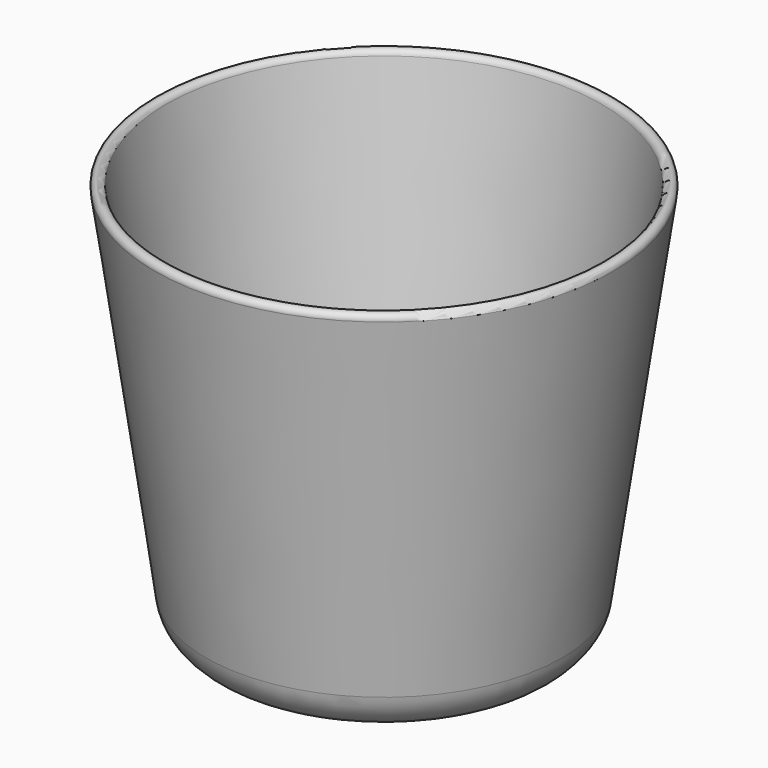
from build123d import *


with BuildPart() as f1:
    # F0 (on Front) → F1 (revolve)
    with BuildSketch(Plane.XZ):
        with BuildLine():
            Line((0, 12), (0, 0))
            Line((0, 0), (23.061637, 0))
            ThreePointArc((23.061637, 0), (28.303251, 1.956368), (30.981233, 6.868629))
            Line((30.981233, 6.868629), (39.83694, 68.858579))
            ThreePointArc((39.83694, 68.858579), (38.988412, 69.989949), (37.857041, 69.141421))
            Line((37.857041, 69.141421), (30.675213, 18.868629))
            ThreePointArc((30.675213, 18.868629), (27.997231, 13.956368), (22.755617, 12))
            Line((22.755617, 12), (0, 12))
        make_face()
    revolve(axis=Axis((0, 0, 45.796357), (0, 0, 1)))


solid = f1.part
